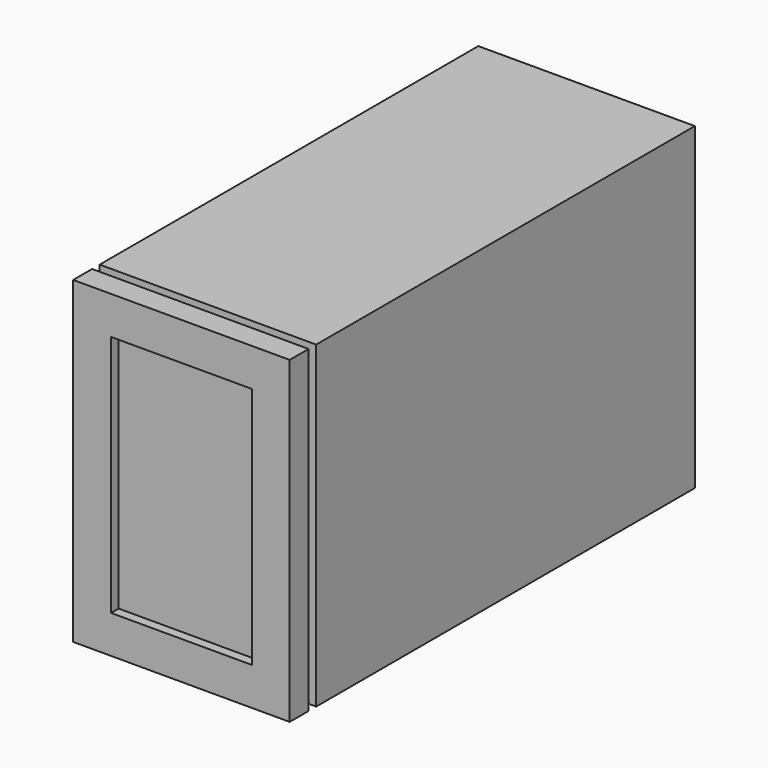
from build123d import *

# Parameters (mm, degrees)
F0_W     = 58.100566268
F0_H     = 85.527934134
F1_DEPTH = 127
F2_T     = -2.54
F3_W     = 58.100566268
F3_H     = 85.527934134
F4_DEPTH = 6.35
F6_W     = 37.780566268
F6_H     = 65.207934134
F7_DEPTH = 2.54


with BuildPart() as f1:
    # F0 (on Front) → F1 (new body)
    with BuildSketch(Plane.XZ):
        Rectangle(F0_W, F0_H)
    extrude(amount=-F1_DEPTH)

    # F2
    f2_openings = [f1.faces().sort_by_distance(p)[0] for p in [
        (0, 0, 0),
    ]]
    offset(amount=F2_T, openings=f2_openings)


with BuildPart() as f4:
    # F3 (on Front) → F4 (new body)
    with BuildSketch(Plane.XZ):
        Rectangle(F3_W, F3_H)
    extrude(amount=F4_DEPTH)


with BuildPart() as f4_1:
    # F5: moved
    add(f4.part.moved(Location((0, -2.54, 0))))

    # F6 (on face) → F7 (cut)
    with BuildSketch(Plane.XZ.offset(8.89)):
        Rectangle(F6_W, F6_H)
    extrude(amount=-F7_DEPTH, mode=Mode.SUBTRACT)


solid = Compound([f1.part, f4_1.part])
